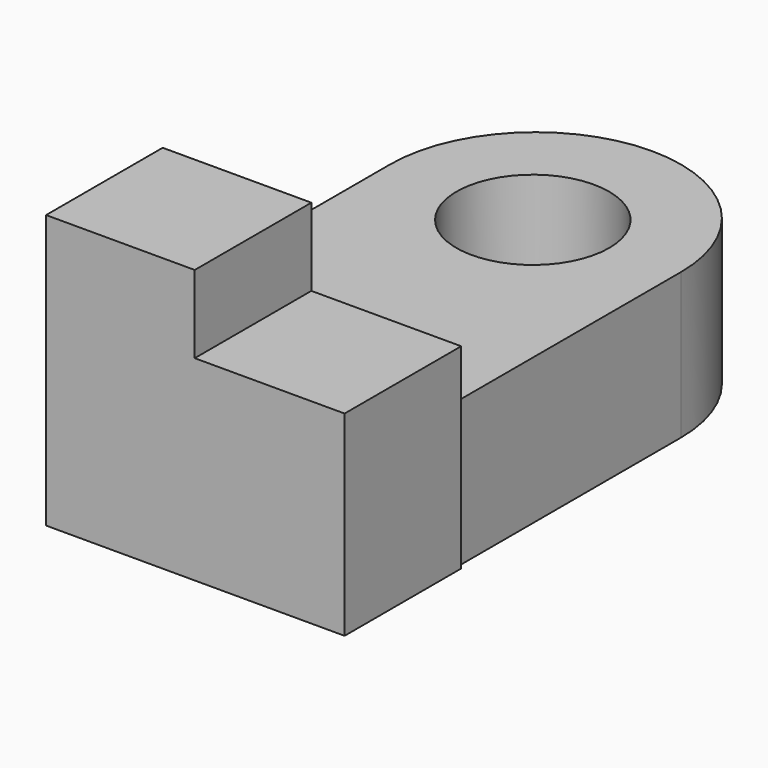
from build123d import *

# Parameters (mm, degrees)
F1_DEPTH = 25.4
F2_R     = 13.3061005932
F3_DEPTH = 25.401
F5_DEPTH = 25.401
F6_W     = 52.0203243941
F6_H     = 47.6390495896
F7_DEPTH = 25.4
F8_W     = 26.2038465589
F8_H     = 14.3460799009
F9_DEPTH = 25.4


with BuildPart() as f1:
    # F0 (on Top) → F1 (new body)
    with BuildSketch(Plane.XY):
        with BuildLine():
            Line((-25.3657195717, 48.8345064223), (25.3657195717, 48.8345064223))
            ThreePointArc((25.3657195717, 48.8345064223), (0, 74.200225994), (-25.3657195717, 48.8345064223))
        make_face()
        with BuildLine():
            Line((25.3657195717, 0), (25.3657195717, 48.8345064223))
            ThreePointArc((25.3657195717, 48.8345064223), (0, 23.4687868506), (-25.3657195717, 48.8345064223))
            Line((-25.3657195717, 48.8345064223), (-25.3657195717, 0))
            Line((-25.3657195717, 0), (25.3657195717, 0))
        make_face()
        with BuildLine():
            ThreePointArc((-25.3657195717, 48.8345064223), (0, 23.4687868506), (25.3657195717, 48.8345064223))
            Line((25.3657195717, 48.8345064223), (-25.3657195717, 48.8345064223))
        make_face()
    extrude(amount=F1_DEPTH)

    # F2 (on Top) → F3 (cut, through all)
    with BuildSketch(Plane.XY):
        with Locations((0, 48.2391826808)):
            Circle(F2_R)
    extrude(amount=F3_DEPTH, mode=Mode.SUBTRACT)

    # F2 (on Top) → F5 (cut, through all)
    with BuildSketch(Plane.XY):
        with Locations((0, 48.2391826808)):
            Circle(F2_R)
    extrude(amount=F5_DEPTH, mode=Mode.SUBTRACT)

    # F6 (on Front) → F7 (join)
    with BuildSketch(Plane.XZ):
        with Locations((0.1023123041, 23.8195247948)):
            Rectangle(F6_W, F6_H)
    extrude(amount=F7_DEPTH)

    # F8 (on Front) → F9 (cut)
    with BuildSketch(Plane.XZ):
        with Locations((13.1019232795, 41.2792069837)):
            Rectangle(F8_W, F8_H)
    extrude(amount=F9_DEPTH, mode=Mode.SUBTRACT)


solid = f1.part
